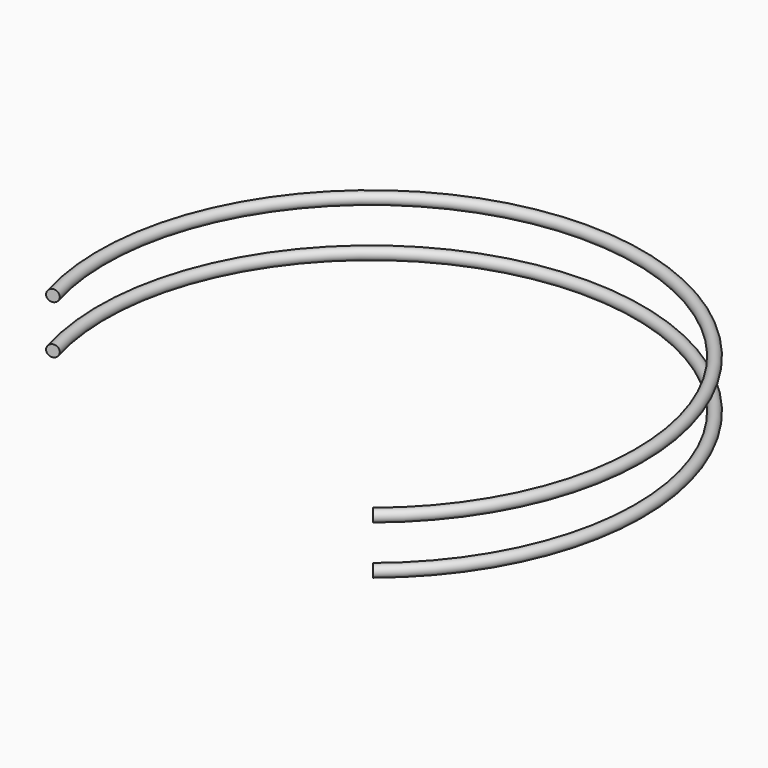
from build123d import *

# Parameters (mm, degrees)
F4_R = 6.0325
F6_R = 6.0325


with BuildPart() as f5:
    # F5: sweep along a path in F2
    with BuildLine(Plane.XY.offset(50.8)) as f5_path:
        ThreePointArc((113.6617185673, -338.7483189934), (21.3515427578, 144.9456485799), (-330.570936203, -199.4837224483))
    # F4 (on 3pt) → F5 (sweep)
    with BuildSketch(Plane(origin=(27.7180559698, -95.5747828637, 0), x_dir=(0.9604254588, 0.2785371394, 0), z_dir=(0.2785371394, -0.9604254588, 0))):
        with Locations((-373.2567727566, 50.6167933345)):
            Circle(F4_R)
    sweep(path=f5_path.line)


with BuildPart() as f7:
    # F7: sweep along a path in F0
    with BuildLine(Plane.XY) as f7_path:
        ThreePointArc((113.6617185673, -338.7483189934), (21.3515427578, 144.9456485799), (-330.570936203, -199.4837224483))
    # F6 (on 3pt) → F7 (sweep)
    with BuildSketch(Plane(origin=(27.7180559698, -95.5747828637, 0), x_dir=(0.9604254588, 0.2785371394, 0), z_dir=(0.2785371394, -0.9604254588, 0))):
        with Locations((-373.2634782791, 0)):
            Circle(F6_R)
    sweep(path=f7_path.line)


solid = Compound([f5.part, f7.part])
